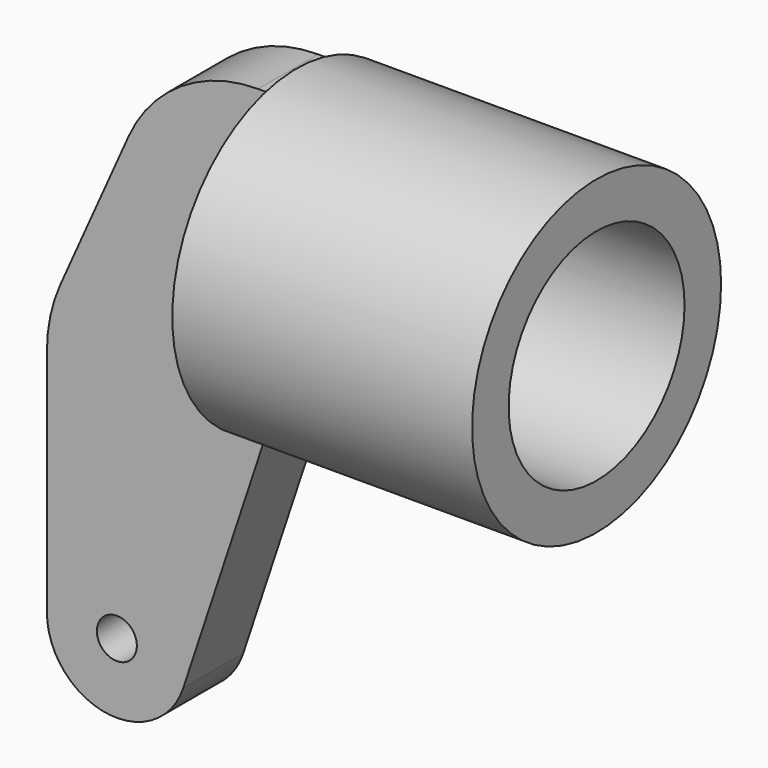
from build123d import *

# Parameters (mm, degrees)
RECTANGLE001_W   = 30
RECTANGLE001_H   = 7.5
EXTRUDE003_DEPTH = 60
SKETCH_R         = 2
EXTRUDE002_DEPTH = 15
SKETCH001_R      = 15.572723
SKETCH001_R_2    = 11
EXTRUDE_DEPTH    = 30


with BuildPart() as extrude003:
    # Rectangle001 → Extrude003 (new body)
    with BuildSketch(Plane(origin=(-30, -3.75, -15), x_dir=(1, 0, 0), z_dir=(0, 0, 1))):
        with Locations((15, 3.75)):
            Rectangle(RECTANGLE001_W, RECTANGLE001_H)
    extrude(amount=EXTRUDE003_DEPTH)


with BuildPart() as extrude003_1:
    # Extrude003 placement: moved
    add(extrude003.part.moved(Location((0, 0, -30))))


with BuildPart() as common:
    # Sketch → Extrude002 (new body)
    with BuildSketch(Plane(origin=(0, 0, -15), x_dir=(1, 0, 0), z_dir=(0, -1, 0))):
        with BuildLine():
            Line((-22, -23), (-22, 0))
            ThreePointArc((-20.644937, 6.353045), (-21.657467, 3.247975), (-22, 0))
            Line((-20.644937, 6.353045), (-13.834191, 21.592376))
            ThreePointArc((-0.867585, 30), (-8.594503, 27.714145), (-13.834191, 21.592376))
            Line((-0.867585, 30), (0, 30))
            Line((0, 30), (0, 0))
            Line((-8.355642, -25.202842), (0, 0))
            ThreePointArc((-22, -23), (-16.115683, -29.910517), (-8.355642, -25.202842))
        make_face()
        with Locations((-15, -23)):
            Circle(SKETCH_R, mode=Mode.SUBTRACT)
    extrude(amount=-EXTRUDE002_DEPTH)


with BuildPart() as common_1:
    # Extrude002 placement: moved
    add(common.part.moved(Location((0, -7.5, 0))))

    # Common: intersect Extrude003
    add(extrude003_1.part, mode=Mode.INTERSECT)


with BuildPart() as body:
    # Sketch001 → Extrude (new body)
    with BuildSketch(Plane.YZ):
        Circle(SKETCH001_R)
        Circle(SKETCH001_R_2, mode=Mode.SUBTRACT)
    extrude(amount=EXTRUDE_DEPTH)

    # Fusion: union Common
    add(common_1.part)


solid = body.part
